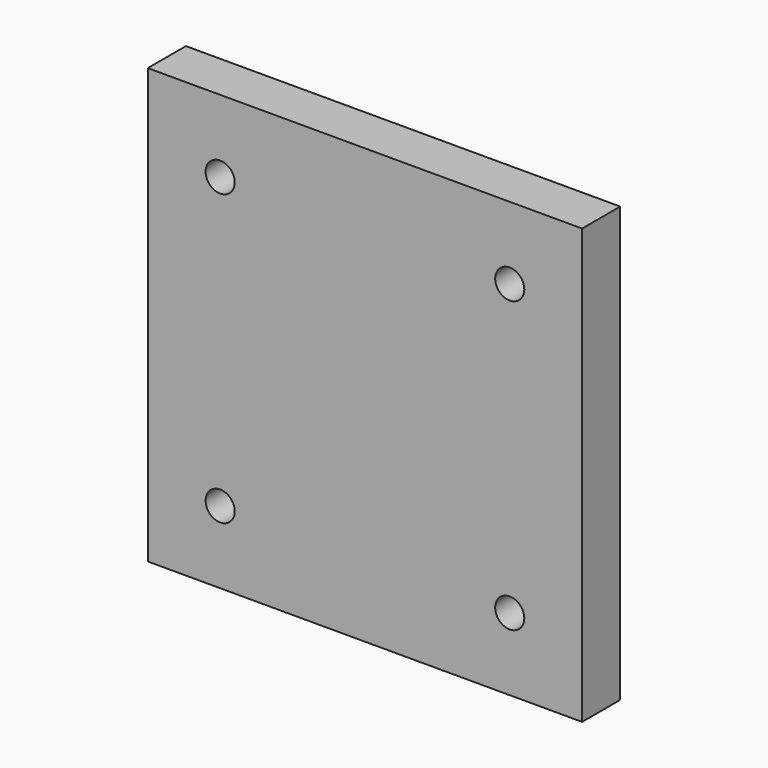
from build123d import *

# Parameters (mm, degrees)
F0_W     = 76.2
F0_H     = 76.2
F1_DEPTH = 8.3566
F2_R     = 2.5527
F3_DEPTH = 8.3576


with BuildPart() as f1:
    # F0 (on Front) → F1 (new body)
    with BuildSketch(Plane.XZ):
        Rectangle(F0_W, F0_H)
    extrude(amount=-F1_DEPTH)

    # F2 (on Front) → F3 (cut, through all)
    with BuildSketch(Plane.XZ):
        with Locations((-25.4, 25.4)):
            Circle(F2_R)
        with Locations((25.4, 25.4)):
            Circle(F2_R)
        with Locations((-25.4, -25.4)):
            Circle(F2_R)
        with Locations((25.4, -25.4)):
            Circle(F2_R)
    extrude(amount=-F3_DEPTH, mode=Mode.SUBTRACT)


solid = f1.part
